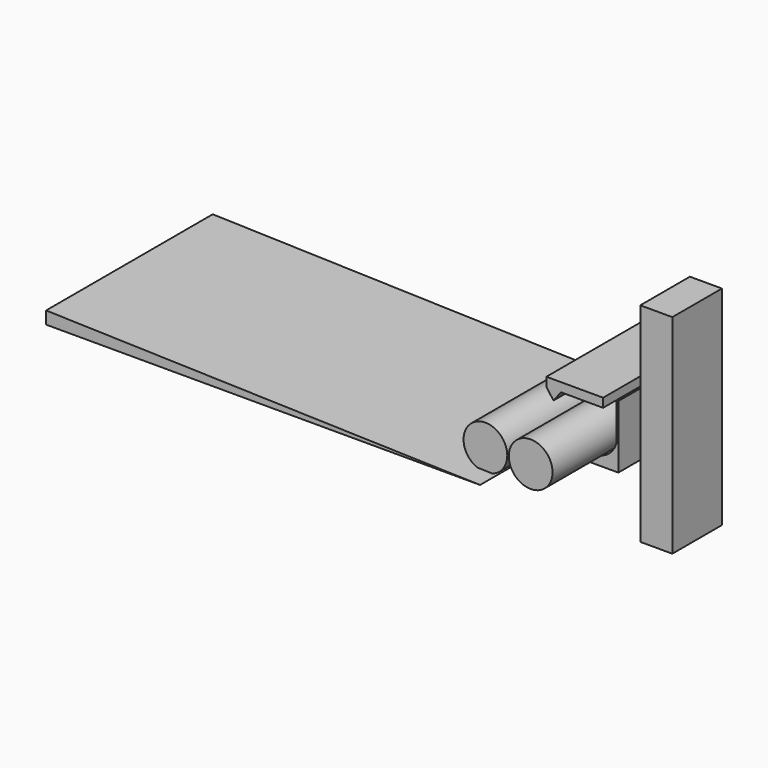
from build123d import *

# Parameters (mm, degrees)
F0_R      = 52.5
F1_DEPTH  = 450
F3_DEPTH  = 260
F4_W      = 76.938853
F4_H      = 148.779336
F5_DEPTH  = 250
F7_DEPTH  = 500
F8_R      = 52.5
F9_DEPTH  = 450
F11_DEPTH = 300


with BuildPart() as f1:
    # F0 (on Front) → F1 (new body)
    with BuildSketch(Plane.XZ):
        Circle(F0_R)
    extrude(amount=F1_DEPTH)


with BuildPart() as f3:
    # F2 (on Front) → F3 (new body)
    with BuildSketch(Plane.XZ):
        with BuildLine():
            Line((-56.102002, -29.698679), (-56.102002, -76.066214))
            Line((-56.102002, -76.066214), (51.897998, -76.066214))
            Line((51.897998, -76.066214), (58.440931, -76.066214))
            Line((58.440931, -76.066214), (58.440931, 74.002035))
            Line((58.440931, 74.002035), (58.440931, 75.161755))
            Line((58.440931, 75.161755), (53.642307, 75.161755))
            Line((53.642307, 75.161755), (53.642307, -16.429774))
            ThreePointArc((53.642307, -16.429774), (7.290681, -55.626258), (-47.596461, -29.698679))
            Line((-47.596461, -29.698679), (-51.849231, -29.698679))
            Line((-51.849231, -29.698679), (-56.102002, -29.698679))
        make_face()
    extrude(amount=F3_DEPTH)


with BuildPart() as f5:
    # F4 (on Top) → F5 (new body, symmetric)
    with BuildSketch(Plane.XY):
        with Locations((96.016667, -118.621303)):
            Rectangle(F4_W, F4_H)
    extrude(amount=F5_DEPTH, both=True)


with BuildPart() as f7:
    # F6 (on Front) → F7 (new body)
    with BuildSketch(Plane.XZ):
        Polygon((-1123.226166, -50.100219), (-81.460141, -50.100219), (-1123.226166, -20.075001), align=None)
    extrude(amount=F7_DEPTH)

    # F8 (on Front) → F9 (join)
    with BuildSketch(Plane.XZ):
        with Locations((-108.63984, 0)):
            Circle(F8_R)
    extrude(amount=F9_DEPTH)


with BuildPart() as f11:
    # F10 (on Front) → F11 (new body)
    with BuildSketch(Plane.XZ):
        Polygon((-47.359243, 75.619392), (-82.03977, 75.16307), (-65.15583, 52.346934), align=None)
        Polygon((-82.327607, 97.038755), (-82.03977, 75.16307), (-47.359243, 75.619392), (53.944398, 75.619392), (53.944398, 97.038755), align=None)
    extrude(amount=F11_DEPTH)


solid = Compound([f1.part, f3.part, f5.part, f7.part, f11.part])
